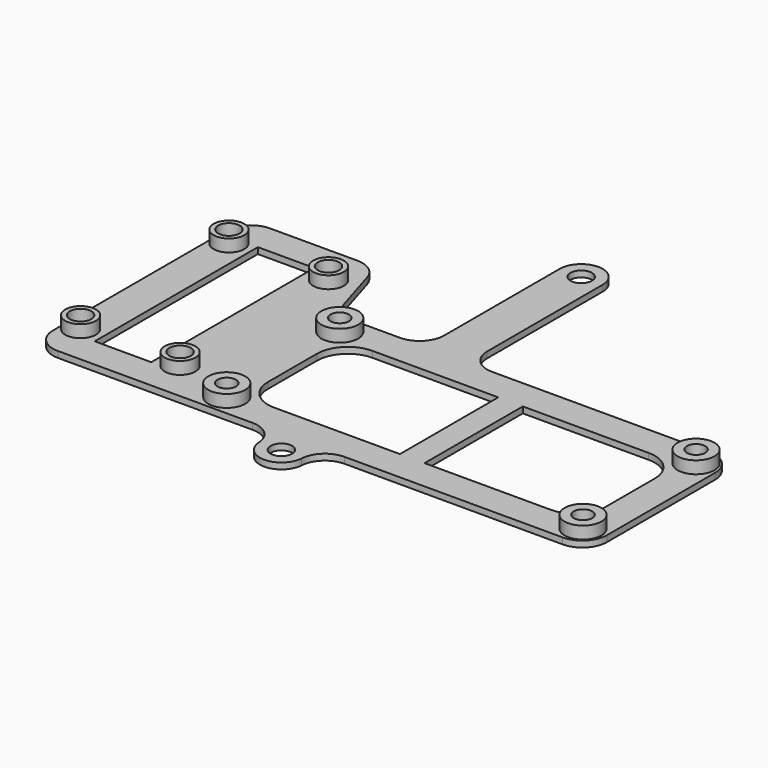
from build123d import *

# Parameters (mm, degrees)
F0_R     = 1.375
F0_R_2   = 1.75
F0_W     = 7
F0_H     = 5
F0_W_2   = 21.2
F0_H_2   = 43.2
F0_W_3   = 9.2
F0_H_3   = 33.2
F2_DEPTH = 1
F1_R     = 3
F1_R_2   = 1.5
F1_R_3   = 2.5
F1_R_4   = 1.75
F3_DEPTH = 2
F4_R     = 4


with BuildPart() as f2:
    # F0 (on Top) → F2 (new body)
    with BuildSketch(Plane.XY):
        with BuildLine():
            Line((-104.7829951048, -4.2856363673), (-119.2829951048, -4.2856363673))
            Line((-119.2829951048, -4.2856363673), (-119.2829951048, -34.2856363673))
            Line((-119.2829951048, -34.2856363673), (-104.7829951048, -34.2856363673))
            Line((-104.7829951048, -34.2856363673), (-104.7829951048, -29.2856363673))
            Line((-104.7829951048, -29.2856363673), (-109.2829951048, -29.2856363673))
            ThreePointArc((-109.2829951048, -29.2856363673), (-112.8185290107, -27.8211702732), (-114.2829951048, -24.2856363673))
            Line((-114.2829951048, -24.2856363673), (-114.2829951048, -14.2856363673))
            ThreePointArc((-114.2829951048, -14.2856363673), (-112.8185290107, -10.7501024614), (-109.2829951048, -9.2856363673))
            Line((-109.2829951048, -9.2856363673), (-104.7829951048, -9.2856363673))
            Line((-104.7829951048, -9.2856363673), (-104.7829951048, -4.2856363673))
        make_face()
        with Locations((-115.7829951048, -30.7856363673)):
            Circle(F0_R, mode=Mode.SUBTRACT)
        with Locations((-115.7829951048, -7.7856363673)):
            Circle(F0_R, mode=Mode.SUBTRACT)
        Polygon((-119.2829951048, -34.2856363673), (-119.2829951048, -4.2856363673), (-123.2829951048, 8.9143636327), (-123.2829951048, -34.2856363673), align=None)
        with BuildLine():
            Line((-104.7829951048, 23.2143636327), (-104.7829951048, -4.2856363673))
            Line((-104.7829951048, -4.2856363673), (-97.7829951048, -4.2856363673))
            Line((-97.7829951048, -4.2856363673), (-97.7829951048, 23.2143636327))
            ThreePointArc((-97.7829951048, 23.2143636327), (-101.2829951048, 26.7143636327), (-104.7829951048, 23.2143636327))
        make_face()
        with Locations((-101.2829951048, 23.2143636327)):
            Circle(F0_R_2, mode=Mode.SUBTRACT)
        with Locations((-101.2829951048, -6.7856363673)):
            Rectangle(F0_W, F0_H)
        with Locations((-133.8829951048, -12.6856363673)):
            Rectangle(F0_W_2, F0_H_2)
        with Locations((-141.9829951048, -27.7856363673)):
            Circle(F0_R_2, mode=Mode.SUBTRACT)
        with Locations((-125.7829951048, -27.7856363673)):
            Circle(F0_R_2, mode=Mode.SUBTRACT)
        with Locations((-133.8829951048, -12.6856363673)):
            Rectangle(F0_W_3, F0_H_3, mode=Mode.SUBTRACT)
        with Locations((-141.9829951048, 2.4143636327)):
            Circle(F0_R_2, mode=Mode.SUBTRACT)
        with Locations((-125.7829951048, 2.4143636327)):
            Circle(F0_R_2, mode=Mode.SUBTRACT)
        Polygon((-54.2829951048, -4.2856363673), (-97.7829951048, -4.2856363673), (-97.7829951048, -9.2856363673), (-88.7829951048, -9.2856363673), (-88.7829951048, -29.2856363673), (-97.7829951048, -29.2856363673), (-97.7829951048, -34.2856363673), (-54.2829951048, -34.2856363673), align=None)
        with Locations((-57.7829951048, -30.7856363673)):
            Circle(F0_R, mode=Mode.SUBTRACT)
        with BuildLine():
            ThreePointArc((-64.2829951048, -9.2856363673), (-60.7474611989, -10.7501024614), (-59.2829951048, -14.2856363673))
            Line((-59.2829951048, -14.2856363673), (-59.2829951048, -24.2856363673))
            ThreePointArc((-59.2829951048, -24.2856363673), (-60.7474611989, -27.8211702732), (-64.2829951048, -29.2856363673))
            Line((-64.2829951048, -29.2856363673), (-84.7829951048, -29.2856363673))
            Line((-84.7829951048, -29.2856363673), (-84.7829951048, -9.2856363673))
            Line((-84.7829951048, -9.2856363673), (-64.2829951048, -9.2856363673))
        make_face(mode=Mode.SUBTRACT)
        with Locations((-57.7829951048, -7.7856363673)):
            Circle(F0_R, mode=Mode.SUBTRACT)
        with Locations((-101.2829951048, -31.7856363673)):
            Rectangle(F0_W, F0_H)
        with BuildLine():
            Line((-97.7829951048, -34.2856363673), (-104.7829951048, -34.2856363673))
            Line((-104.7829951048, -34.2856363673), (-104.7829951048, -37.7856363673))
            ThreePointArc((-104.7829951048, -37.7856363673), (-101.2829951048, -41.2856363673), (-97.7829951048, -37.7856363673))
            Line((-97.7829951048, -37.7856363673), (-97.7829951048, -34.2856363673))
        make_face()
        with Locations((-101.2829951048, -37.7856363673)):
            Circle(F0_R_2, mode=Mode.SUBTRACT)
    extrude(amount=-F2_DEPTH)

    # F1 (on Top) → F3 (join)
    with BuildSketch(Plane.XY):
        with Locations((-115.7829951048, -7.7856363673)):
            Circle(F1_R)
        with Locations((-115.7829951048, -7.7856363673)):
            Circle(F1_R_2, mode=Mode.SUBTRACT)
        with Locations((-115.7829951048, -30.7856363673)):
            Circle(F1_R)
        with Locations((-115.7829951048, -30.7856363673)):
            Circle(F1_R_2, mode=Mode.SUBTRACT)
        with Locations((-57.7829951048, -7.7856363673)):
            Circle(F1_R)
        with Locations((-57.7829951048, -7.7856363673)):
            Circle(F1_R_2, mode=Mode.SUBTRACT)
        with Locations((-57.7829951048, -30.7856363673)):
            Circle(F1_R)
        with Locations((-57.7829951048, -30.7856363673)):
            Circle(F1_R_2, mode=Mode.SUBTRACT)
        with Locations((-141.9829951048, 2.4143636327)):
            Circle(F1_R_3)
        with Locations((-141.9829951048, 2.4143636327)):
            Circle(F1_R_4, mode=Mode.SUBTRACT)
        with Locations((-141.9829951048, -27.7856363673)):
            Circle(F1_R_3)
        with Locations((-141.9829951048, -27.7856363673)):
            Circle(F1_R_4, mode=Mode.SUBTRACT)
        with Locations((-125.7829951048, 2.4143636327)):
            Circle(F1_R_3)
        with Locations((-125.7829951048, 2.4143636327)):
            Circle(F1_R_4, mode=Mode.SUBTRACT)
        with Locations((-125.7829951048, -27.7856363673)):
            Circle(F1_R_3)
        with Locations((-125.7829951048, -27.7856363673)):
            Circle(F1_R_4, mode=Mode.SUBTRACT)
    extrude(amount=F3_DEPTH)

    # F4
    f4_edges = [f2.edges().sort_by_distance(p)[0] for p in [
        (-144.482995, 8.914364, -0.5),
        (-123.282995, 8.914364, -0.5),
        (-119.282995, -4.285636, -0.5),
        (-54.282995, -4.285636, -0.5),
        (-97.782995, -4.285636, -0.5),
        (-104.782995, -4.285636, -0.5),
        (-144.482995, -34.285636, -0.5),
        (-54.282995, -34.285636, -0.5),
        (-97.782995, -34.285636, -0.5),
        (-104.782995, -34.285636, -0.5),
    ]]
    fillet(f4_edges, radius=F4_R)


solid = f2.part
